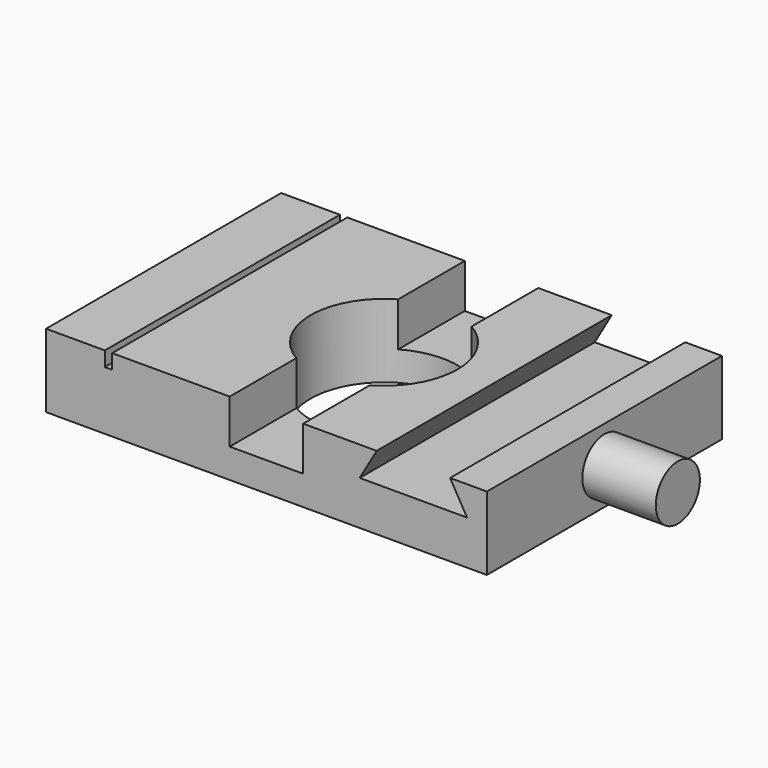
from build123d import *

# Parameters (mm, degrees)
F0_W     = 76.2
F0_H     = 50.8
F0_R     = 12.7
F1_DEPTH = 12.7
F3_DEPTH = 50.801
F5_DEPTH = 50.801
F6_R     = 4.7625
F7_DEPTH = 12.7


with BuildPart() as f1:
    # F0 (on Top) → F1 (new body)
    with BuildSketch(Plane.XY):
        Rectangle(F0_W, F0_H)
        Circle(F0_R, mode=Mode.SUBTRACT)
    extrude(amount=F1_DEPTH)

    # F2 (on face) → F3 (intersect, through all)
    with BuildSketch(Plane.XZ.offset(25.4)):
        Polygon((-27.94, 10.16), (-27.94, 12.7), (-38.1, 12.7), (-38.1, 0), (38.1, 0), (38.1, 12.7), (6.35, 12.7), (6.35, 5.08), (-6.35, 5.08), (-6.35, 12.7), (-26.67, 12.7), (-26.67, 10.16), align=None)
    extrude(amount=-F3_DEPTH, mode=Mode.INTERSECT)

    # F4 (on face) → F5 (cut, through all)
    with BuildSketch(Plane.XZ.offset(25.4)):
        Polygon((31.75, 12.7), (19.05, 12.7), (16.1170606325, 7.62), (34.6829393675, 7.62), align=None)
    extrude(amount=-F5_DEPTH, mode=Mode.SUBTRACT)

    # F6 (on face) → F7 (join)
    with BuildSketch(Plane.YZ.offset(38.1)):
        with Locations((0, 6.35)):
            Circle(F6_R)
    extrude(amount=F7_DEPTH)


solid = f1.part
